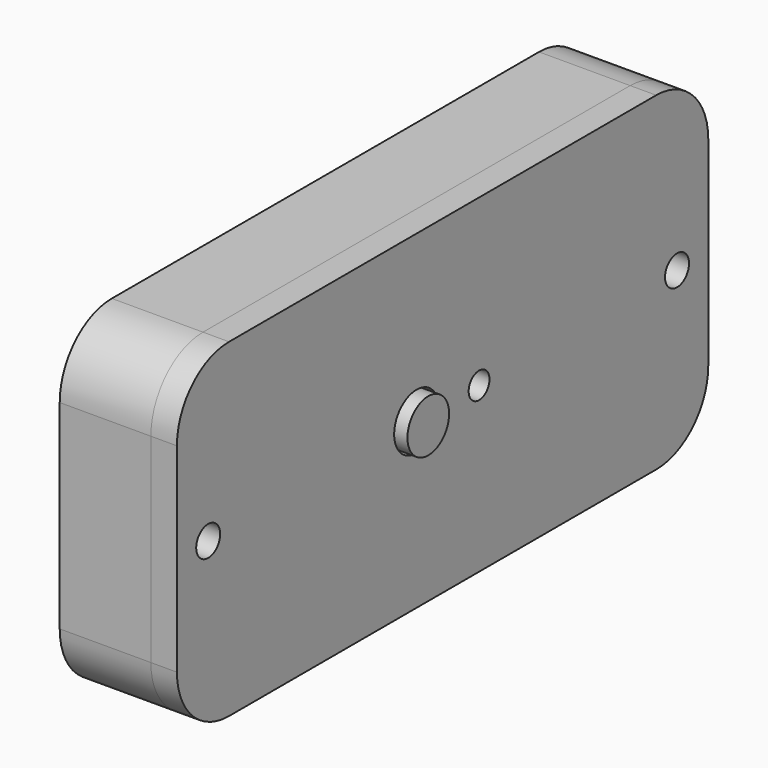
from build123d import *

# Parameters (mm, degrees)
F0_R      = 1.25
F0_R_2    = 1
F1_DEPTH  = 1
F2_R      = 1
F3_DEPTH  = 1.5
F4_R      = 1.5
F5_DEPTH  = 3.4
F6_R      = 3
F7_DEPTH  = 2.4
F8_W      = 9.1
F8_H      = 10
F9_DEPTH  = 1
F10_R     = 0.9
F11_DEPTH = 3.401
F13_DEPTH = 3.6
F14_R     = 0.9
F15_DEPTH = 7.001
F16_R     = 2.15
F16_R_2   = 1
F16_R_3   = 1.15
F17_DEPTH = 2
F18_R     = 3
F19_DEPTH = 1
F20_R     = 2
F21_DEPTH = 3


with BuildPart() as f1:
    # F0 (on Right) → F1 (new body)
    with BuildSketch(Plane.YZ):
        Polygon((0, 6.8), (0, 0), (16.4, 0), (16.4, -3.9), (26.5, -3.9), (26.5, 8.1), (37, 8.1), (37, 15.3), (12.85, 15.3), (9.65, 18.9), (5.25, 18.9), (5.25, 6.8), align=None)
        with Locations((2.95, 3.25)):
            Circle(F0_R, mode=Mode.SUBTRACT)
        with Locations((10.5, 2)):
            Circle(F0_R_2, mode=Mode.SUBTRACT)
        with Locations((33.55, 11.95)):
            Circle(F0_R, mode=Mode.SUBTRACT)
    extrude(amount=F1_DEPTH)

    # F2 (on face) → F3 (join)
    with BuildSketch(Plane.YZ.offset(1)):
        with Locations((16, 8.7)):
            Circle(F2_R)
        with Locations((22, 8.7)):
            Circle(F2_R)
    extrude(amount=F3_DEPTH)


with BuildPart() as f5:
    # F4 (on Right) → F5 (new body)
    with BuildSketch(Plane.YZ):
        with BuildLine():
            ThreePointArc((-7, 1.1), (-5.535534, -2.435534), (-2, -3.9))
            Line((-2, -3.9), (39, -3.9))
            ThreePointArc((39, -3.9), (42.535534, -2.435534), (44, 1.1))
            Line((44, 1.1), (44, 16.4))
            ThreePointArc((44, 16.4), (42.535534, 19.935534), (39, 21.4))
            Line((39, 21.4), (-2, 21.4))
            ThreePointArc((-2, 21.4), (-5.535534, 19.935534), (-7, 16.4))
            Line((-7, 16.4), (-7, 1.1))
        make_face()
        with Locations((10.5, 2)):
            Circle(F4_R, mode=Mode.SUBTRACT)
        with Locations((35.5, 2)):
            Circle(F4_R, mode=Mode.SUBTRACT)
    extrude(amount=-F5_DEPTH)

    # F6 (on face) → F7 (cut)
    with BuildSketch(Plane.YZ):
        with Locations((35.5, 2)):
            Circle(F6_R)
        with Locations((10.5, 2)):
            Circle(F6_R)
    extrude(amount=-F7_DEPTH, mode=Mode.SUBTRACT)

    # F8 (on face) → F9 (cut)
    with BuildSketch(Plane.YZ):
        with Locations((21.45, 1.1)):
            Rectangle(F8_W, F8_H)
    extrude(amount=-F9_DEPTH, mode=Mode.SUBTRACT)

    # F10 (on face) → F11 (cut, through all)
    with BuildSketch(Plane.YZ):
        with Locations((33.55, 11.95)):
            Circle(F10_R)
        with Locations((2.95, 3.25)):
            Circle(F10_R)
    extrude(amount=-F11_DEPTH, mode=Mode.SUBTRACT)

    # F12 (on face) → F13 (join)
    with BuildSketch(Plane.YZ):
        with BuildLine():
            Line((39, 21.4), (-2, 21.4))
            ThreePointArc((-2, 21.4), (-5.535534, 19.935534), (-7, 16.4))
            Line((-7, 16.4), (-7, 1.1))
            ThreePointArc((-7, 1.1), (-5.535534, -2.435534), (-2, -3.9))
            Line((-2, -3.9), (15.9, -3.9))
            Line((15.9, -3.9), (15.9, -1.9))
            Line((15.9, -1.9), (-2, -1.9))
            ThreePointArc((-2, -1.9), (-4.12132, -1.02132), (-5, 1.1))
            Line((-5, 1.1), (-5, 4.75))
            ThreePointArc((-5, 4.75), (-4.707107, 5.457107), (-4, 5.75))
            ThreePointArc((-4, 5.75), (-1, 8.75), (-4, 11.75))
            ThreePointArc((-4, 11.75), (-4.707107, 12.042893), (-5, 12.75))
            Line((-5, 12.75), (-5, 16.4))
            ThreePointArc((-5, 16.4), (-4.12132, 18.52132), (-2, 19.4))
            Line((-2, 19.4), (39, 19.4))
            ThreePointArc((39, 19.4), (41.12132, 18.52132), (42, 16.4))
            Line((42, 16.4), (42, 12.75))
            ThreePointArc((42, 12.75), (41.707107, 12.042893), (41, 11.75))
            ThreePointArc((41, 11.75), (38, 8.75), (41, 5.75))
            ThreePointArc((41, 5.75), (41.707107, 5.457107), (42, 4.75))
            Line((42, 4.75), (42, 1.1))
            ThreePointArc((42, 1.1), (41.12132, -1.02132), (39, -1.9))
            Line((39, -1.9), (27, -1.9))
            Line((27, -1.9), (27, -3.9))
            Line((27, -3.9), (39, -3.9))
            ThreePointArc((39, -3.9), (42.535534, -2.435534), (44, 1.1))
            Line((44, 1.1), (44, 16.4))
            ThreePointArc((44, 16.4), (42.535534, 19.935534), (39, 21.4))
        make_face()
    extrude(amount=F13_DEPTH)

    # F14 (on face) → F15 (cut, through all)
    with BuildSketch(Plane.YZ.offset(3.6)):
        with Locations((-4, 8.75)):
            Circle(F14_R)
        with Locations((41, 8.75)):
            Circle(F14_R)
    extrude(amount=-F15_DEPTH, mode=Mode.SUBTRACT)


with BuildPart() as f17:
    # F16 (on face) → F17 (new body)
    with BuildSketch(Plane.YZ.offset(3.6)):
        with BuildLine():
            Line((-7, 16.4), (-7, 1.1))
            ThreePointArc((-7, 1.1), (-5.535534, -2.435534), (-2, -3.9))
            Line((-2, -3.9), (15.9, -3.9))
            Line((15.9, -3.9), (27, -3.9))
            Line((27, -3.9), (39, -3.9))
            ThreePointArc((39, -3.9), (42.535534, -2.435534), (44, 1.1))
            Line((44, 1.1), (44, 16.4))
            ThreePointArc((44, 16.4), (42.535534, 19.935534), (39, 21.4))
            Line((39, 21.4), (-2, 21.4))
            ThreePointArc((-2, 21.4), (-5.535534, 19.935534), (-7, 16.4))
        make_face()
        with Locations((16, 8.7)):
            Circle(F16_R, mode=Mode.SUBTRACT)
        with Locations((22, 8.7)):
            Circle(F16_R_2, mode=Mode.SUBTRACT)
        with Locations((-4, 8.75)):
            Circle(F16_R_3, mode=Mode.SUBTRACT)
        with Locations((41, 8.75)):
            Circle(F16_R_3, mode=Mode.SUBTRACT)
    extrude(amount=F17_DEPTH)


with BuildPart() as f19:
    # F18 (on face) → F19 (new body)
    with BuildSketch(Plane.YZ.offset(2.5)):
        with Locations((16, 8.7)):
            Circle(F18_R)
    extrude(amount=F19_DEPTH)

    # F20 (on face) → F21 (join)
    with BuildSketch(Plane.YZ.offset(3.5)):
        with Locations((16, 8.7)):
            Circle(F20_R)
    extrude(amount=F21_DEPTH)


solid = Compound([f1.part, f5.part, f17.part, f19.part])
